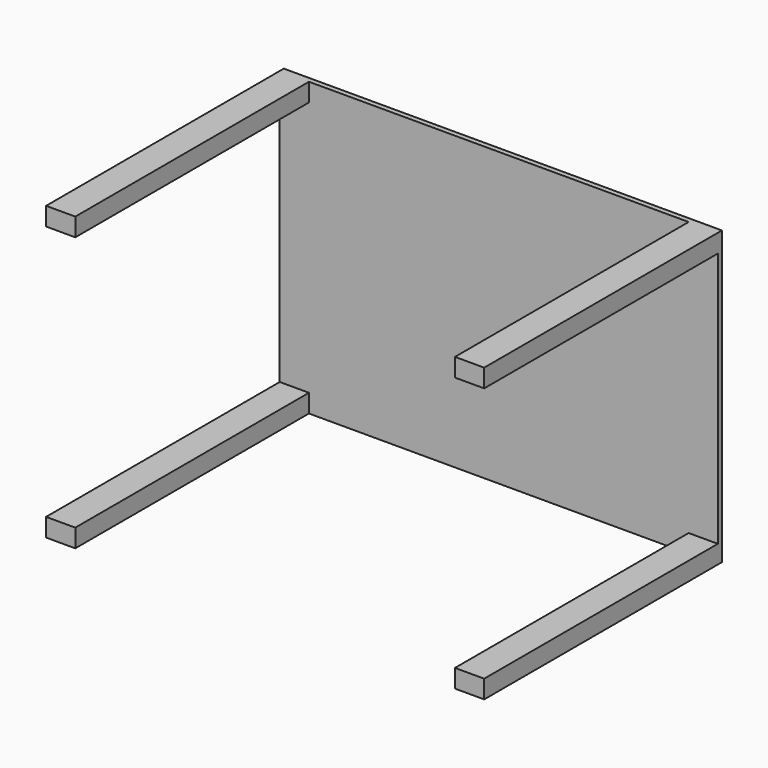
from build123d import *

# Parameters (mm, degrees)
F0_W     = 600
F0_H     = 400
F1_DEPTH = 7
F2_W     = 40
F2_H     = 25
F3_DEPTH = 400
F4_DEPTH = 400
F5_DEPTH = 400
F6_DEPTH = 400


with BuildPart() as f1:
    # F0 (on Front) → F1 (new body)
    with BuildSketch(Plane.XZ):
        with Locations((93.126289, 59.305324)):
            Rectangle(F0_W, F0_H)
    extrude(amount=F1_DEPTH)

    # F2 (on face) → F3 (join)
    with BuildSketch(Plane.XZ.offset(7)):
        with Locations((-186.873711, 246.805324)):
            Rectangle(F2_W, F2_H)
    extrude(amount=F3_DEPTH)

    # F2 (on face) → F4 (join)
    with BuildSketch(Plane.XZ.offset(7)):
        with Locations((-186.873711, -128.194676)):
            Rectangle(F2_W, F2_H)
    extrude(amount=F4_DEPTH)

    # F2 (on face) → F5 (join)
    with BuildSketch(Plane.XZ.offset(7)):
        with Locations((373.126289, 246.805324)):
            Rectangle(F2_W, F2_H)
    extrude(amount=F5_DEPTH)

    # F2 (on face) → F6 (join)
    with BuildSketch(Plane.XZ.offset(7)):
        with Locations((373.126289, -128.194676)):
            Rectangle(F2_W, F2_H)
    extrude(amount=F6_DEPTH)


solid = f1.part
